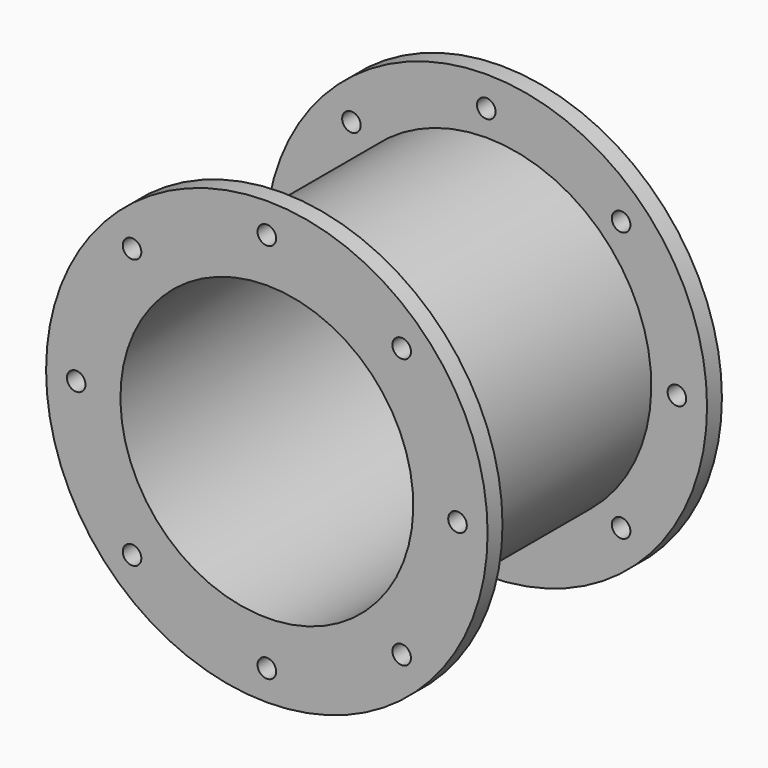
from build123d import *

# Parameters (mm, degrees)
F0_W     = 6.35
F0_H     = 19.05
F0_W_2   = 87.376
F0_H_2   = 6.35
F2_R     = 3.175
F3_DEPTH = 100.077


with BuildPart() as f1:
    # F0 (on Right) → F1 (revolve)
    with BuildSketch(Plane.YZ):
        with Locations((3.175, 65.913)):
            Rectangle(F0_W, F0_H)
        with Locations((96.901, 65.913)):
            Rectangle(F0_W, F0_H)
        with Locations((50.038, 53.213)):
            Rectangle(F0_W_2, F0_H_2)
        with Locations((3.175, 53.213)):
            Rectangle(F0_W, F0_H_2)
        with Locations((96.901, 53.213)):
            Rectangle(F0_W, F0_H_2)
    revolve(axis=Axis((0, 54.087968, 0), (0, 1, 0)))

    # F2 (on face) → F3 (cut, through all)
    with BuildSketch(Plane.XZ):
        with Locations((-46.068714, 46.068714)):
            Circle(F2_R)
        with Locations((-65.151, 0)):
            Circle(F2_R)
        with Locations((-46.068714, -46.068714)):
            Circle(F2_R)
        with Locations((0, -65.151)):
            Circle(F2_R)
        with Locations((46.068714, -46.068714)):
            Circle(F2_R)
        with Locations((65.151, 0)):
            Circle(F2_R)
        with Locations((46.068714, 46.068714)):
            Circle(F2_R)
        with Locations((0, 65.151)):
            Circle(F2_R)
    extrude(amount=-F3_DEPTH, mode=Mode.SUBTRACT)


solid = f1.part
